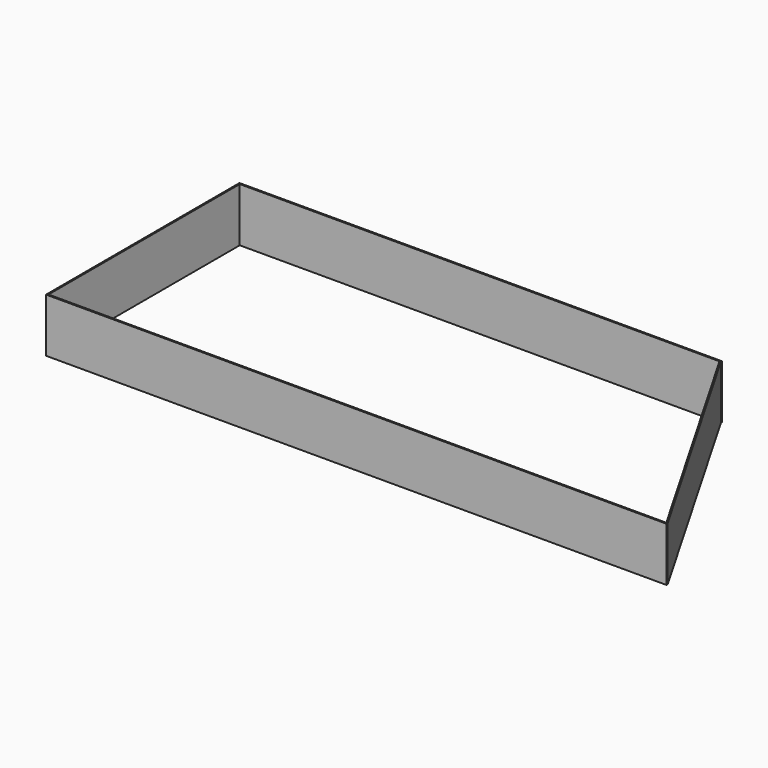
from build123d import *

# Parameters (mm, degrees)
F1_DEPTH = 160


with BuildPart() as f1:
    # F0 (on Top) → F1 (new body)
    with BuildSketch(Plane.XY):
        Polygon((-4, 16.818339), (0, 16.818339), (1835, 16.818339), (1839, 16.818339), (1839, 20.818339), (1429, 730.818339), (1429, 734.818339), (1426.690141, 734.818339), (1425, 734.818339), (0, 734.818339), (-4, 734.818339), (-4, 730.818339), (-4, 20.818339), align=None)
        Polygon((1835, 20.818339), (0, 20.818339), (0, 730.818339), (1425, 730.818339), align=None, mode=Mode.SUBTRACT)
    extrude(amount=F1_DEPTH)


solid = f1.part
